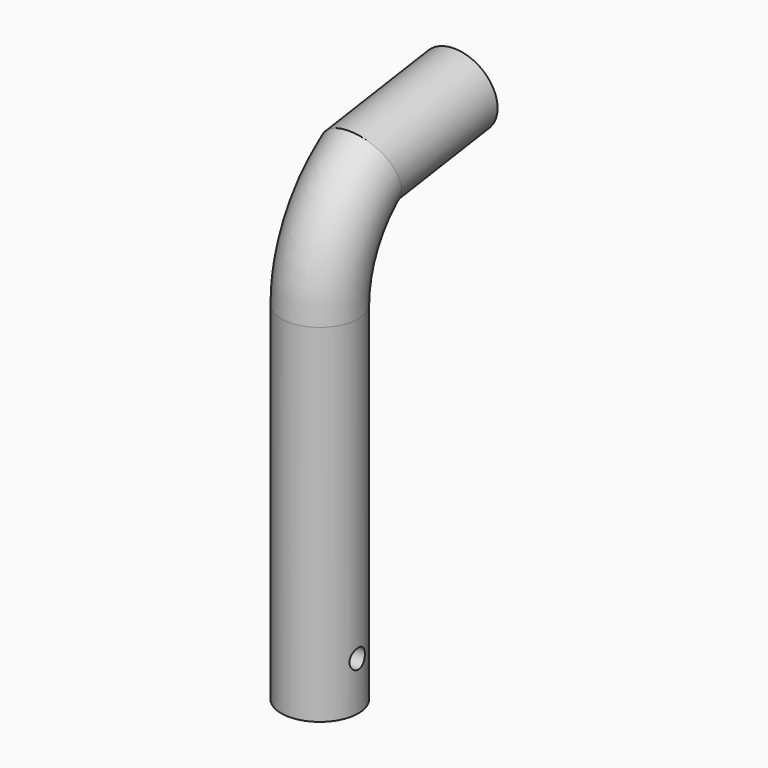
from build123d import *

# Parameters (mm, degrees)
F0_R     = 10
F3_R     = 10
F4_DEPTH = 25
F5_R     = 2.5
F6_DEPTH = 25
F7_DEPTH = 25


with BuildPart() as f2:
    # F2: sweep along a path in F1
    with BuildLine(Plane.YZ) as f2_path:
        Line((45.0143888593, 63.3423924446), (13.3935455233, 58.710038662))
        ThreePointArc((13.3935455233, 58.710038662), (3.5423817202, 47.2169391208), (0, 32.5))
        Line((0, 32.5), (0, 0))
        Line((0, 0), (0, -32.5))
    # F0 (on Top) → F2 (sweep)
    with BuildSketch(Plane.XY):
        Circle(F0_R)
    sweep(path=f2_path.line, transition=Transition.RIGHT)

    # F3 (on face) → F4 (join)
    with BuildSketch(Plane(origin=(0, 0, -32.5), x_dir=(1, 0, 0), z_dir=(0, 0, -1))):
        Circle(F3_R)
    extrude(amount=F4_DEPTH)

    # F5 (on Right) → F6 (cut)
    with BuildSketch(Plane.YZ):
        with Locations((0, -45)):
            Circle(F5_R)
    extrude(amount=-F6_DEPTH, mode=Mode.SUBTRACT)

    # F7 (cut): a face of the model
    f7_faces = [f2.faces().sort_by_distance(p)[0] for p in [
        (0, 0, -45),
    ]]
    extrude(f7_faces, amount=-F7_DEPTH, mode=Mode.SUBTRACT)


solid = f2.part
